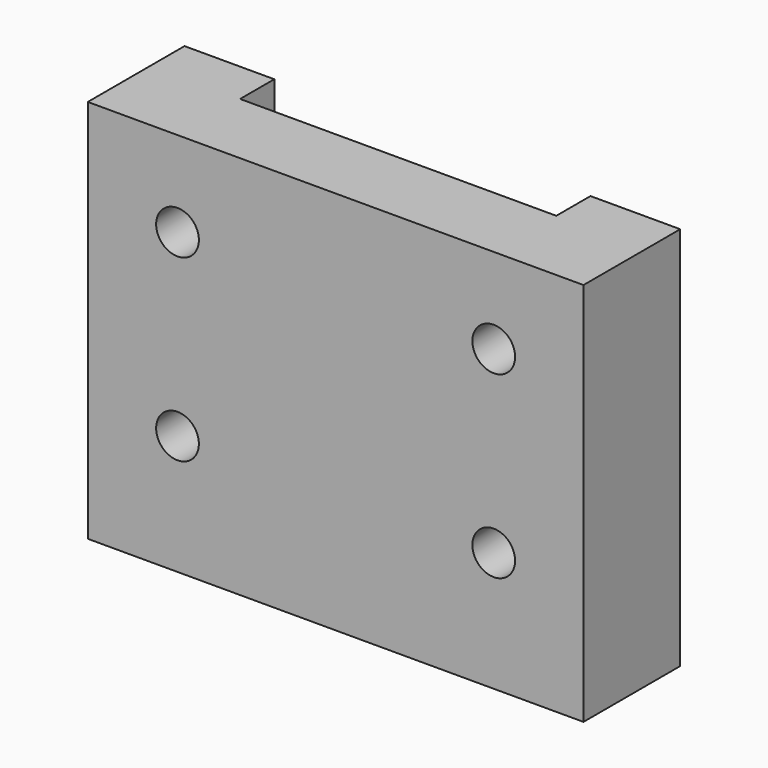
from build123d import *

# Parameters (mm, degrees)
SKETCH001_W     = 58
SKETCH001_H     = 45
PAD_DEPTH       = 14.15
SKETCH002_W     = 48
SKETCH002_H     = 35
POCKET_DEPTH    = 5
SKETCH004_R     = 2.5
POCKET001_DEPTH = 10
SKETCH_W        = 37
SKETCH_H        = 5
POCKET002_DEPTH = 5
SKETCH005_W     = 7.5
SKETCH005_H     = 5
POCKET003_DEPTH = 5


with BuildPart() as part:
    # Sketch001 → Pad (new body)
    with BuildSketch(Plane.XZ):
        with Locations((0, 17.5)):
            Rectangle(SKETCH001_W, SKETCH001_H)
    extrude(amount=PAD_DEPTH)

    # Sketch002 → Pocket (cut)
    with BuildSketch(Plane(origin=(0, 0, 0), x_dir=(1, 0, 0), z_dir=(0, 1, 0))):
        with Locations((0, -17.5)):
            Rectangle(SKETCH002_W, SKETCH002_H)
    extrude(amount=-POCKET_DEPTH, mode=Mode.SUBTRACT)

    # Sketch004 → Pocket001 (cut)
    with BuildSketch(Plane(origin=(0, -5, 0), x_dir=(1, 0, 0), z_dir=(0, 1, 0))):
        with Locations((-18.5, -9)):
            Circle(SKETCH004_R)
        with Locations((18.5, -9)):
            Circle(SKETCH004_R)
        with Locations((-18.5, -30)):
            Circle(SKETCH004_R)
        with Locations((18.5, -30)):
            Circle(SKETCH004_R)
    extrude(amount=-POCKET001_DEPTH, mode=Mode.SUBTRACT)

    # Sketch → Pocket002 (cut)
    with BuildSketch(Plane(origin=(0, 0, 40), x_dir=(-1, 0, 0), z_dir=(0, 0, 1))):
        with Locations((0, 2.5)):
            Rectangle(SKETCH_W, SKETCH_H)
    extrude(amount=-POCKET002_DEPTH, mode=Mode.SUBTRACT)

    # Sketch005 → Pocket003 (cut)
    with BuildSketch(Plane(origin=(0, 0, 0), x_dir=(-1, 0, 0), z_dir=(0, 0, 1))):
        with Locations((13.25, 2.5)):
            Rectangle(SKETCH005_W, SKETCH005_H)
        with Locations((-13.25, 2.5)):
            Rectangle(SKETCH005_W, SKETCH005_H)
    extrude(amount=-POCKET003_DEPTH, mode=Mode.SUBTRACT)


solid = part.part
